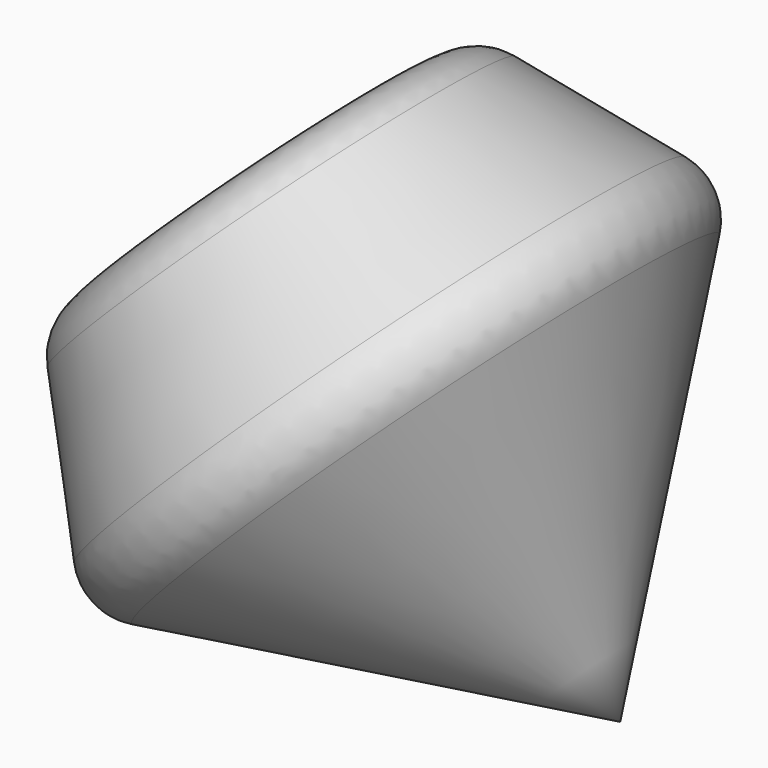
from build123d import *

# Parameters (mm, degrees)
F2_T = -2.54
F3_R = 5.08
F4_R = 5.08


with BuildPart() as f1:
    # F0 (on Front) → F1 (revolve)
    with BuildSketch(Plane.XZ):
        Polygon((-38.710538, 0), (0, 0), (-34.087466, 34.087466), (-45.367766, 19.108707), align=None)
    revolve(axis=Axis((-17.043733, 0, 17.043733), (0.707107, 0, -0.707107)))

    # F2
    f2_openings = [f1.faces().sort_by_distance(p)[0] for p in [
        (-26.598087, 0, 39.727616),
    ]]
    offset(amount=F2_T, openings=f2_openings)

    # F3
    f3_edges = [f1.edges().sort_by_distance(p)[0] for p in [
        (-19.108707, 0, 45.367766),
    ]]
    fillet(f3_edges, radius=F3_R)

    # F4
    f4_edges = [f1.edges().sort_by_distance(p)[0] for p in [
        (0, 0, 38.710538),
    ]]
    fillet(f4_edges, radius=F4_R)


solid = f1.part
